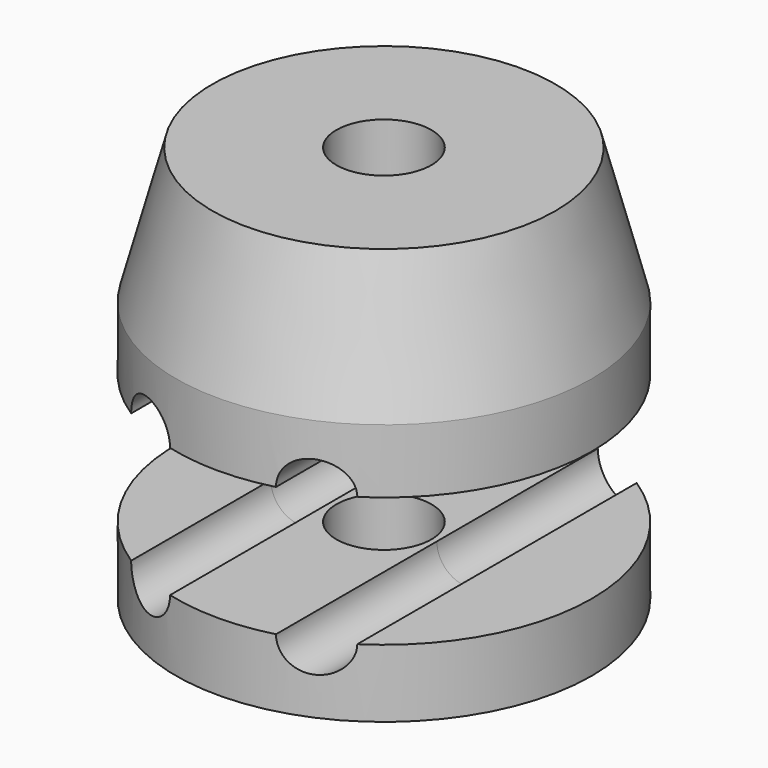
from build123d import *

# Parameters (mm, degrees)
F0_W       = 10.5156
F0_H       = 5.3848
F0_W_2     = 6.985
F0_H_2     = 5.715
F2_D       = 5.0546
F2_DEPTH   = 17.5016
F2_2_D     = 5.0546
F2_2_DEPTH = 17.5016
F3_D       = 5.0546
F3_2_D     = 5.0546
F5_D       = 8.001
F5_2_D     = 8.001


with BuildPart() as f1:
    # F0 (on Front) → F1 (revolve)
    with BuildSketch(Plane.XZ):
        Polygon((0, 11.43), (0, 0), (6.985, 0), (17.5006, 0), (14.4379407305, 11.43), align=None)
        Polygon((0, 11.43), (0, 0), (6.985, 0), (17.5006, 0), (14.4379407305, 11.43), align=None)
        with Locations((12.2428, -2.6924)):
            Rectangle(F0_W, F0_H)
        with Locations((3.4925, -2.6924)):
            Rectangle(F0_W_2, F0_H)
    revolve(axis=Axis((0, 0, 5.715), (0, 0, -1)))

    # F2 (through all, one way)
    with BuildSketch(Plane(origin=(0, 0, 0), x_dir=(1, 0, 0), z_dir=(0, 1, 0))):
        with Locations((6.985, 5.3848), (-6.985, 5.3848), (6.985, 16.2921505755), (-6.985, 16.2921505755)):
            Circle(F2_D / 2)
    extrude(amount=-F2_DEPTH, mode=Mode.SUBTRACT)

    # F3 (through all)
    with Locations(Plane.XZ):
        with Locations((-6.985, -5.3848), (6.985, -5.3848), (6.985, -16.2921505755), (-6.985, -16.2921505755)):
            Hole(F3_D / 2)

    # F5 (through all)
    with Locations(Plane.XY.offset(11.43)):
        with Locations((0, 0)):
            Hole(F5_D / 2)


with BuildPart() as f1b:
    # F0 (on Front) → F1, piece 2 (revolve)
    with BuildSketch(Plane.XZ):
        with Locations((3.4925, -19.1496505755)):
            Rectangle(F0_W_2, F0_H_2)
        with Locations((12.2428, -19.1496505755)):
            Rectangle(F0_W, F0_H_2)
    revolve(axis=Axis((0, 0, 5.715), (0, 0, -1)))

    # F2#2 (through all, one way)
    with BuildSketch(Plane(origin=(0, 0, 0), x_dir=(1, 0, 0), z_dir=(0, 1, 0))):
        with Locations((6.985, 5.3848), (-6.985, 5.3848), (6.985, 16.2921505755), (-6.985, 16.2921505755)):
            Circle(F2_2_D / 2)
    extrude(amount=-F2_2_DEPTH, mode=Mode.SUBTRACT)

    # F3#2 (through all)
    with Locations(Plane.XZ):
        with Locations((-6.985, -5.3848), (6.985, -5.3848), (6.985, -16.2921505755), (-6.985, -16.2921505755)):
            Hole(F3_2_D / 2)

    # F5#2 (through all)
    with Locations(Plane.XY.offset(11.43)):
        with Locations((0, 0)):
            Hole(F5_2_D / 2)


solid = Compound([f1.part, f1b.part])
